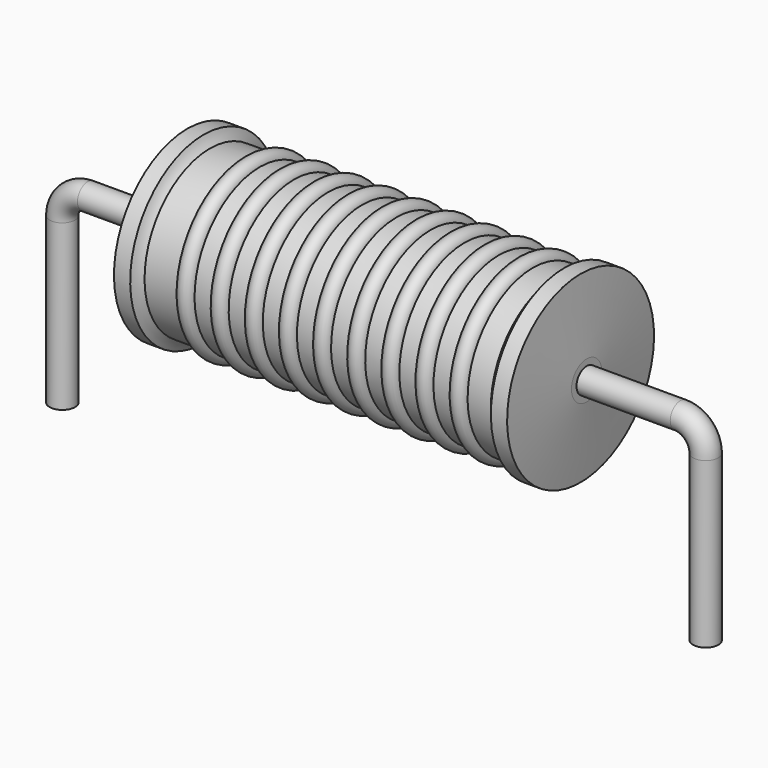
from build123d import *

# Parameters (mm, degrees)
SKETCH_R = 0.4


with BuildPart() as sweep_body:
    # Sweep: sweep along a path in Sketch001
    with BuildLine(Plane.XZ) as sweep_path:
        Line((0, -3), (0, 2.2))
        ThreePointArc((0, 2.2), (0.234312, 2.765683), (0.799992, 3))
        Line((0.799992, 3), (19.52, 3))
        ThreePointArc((19.52, 3), (20.085685, 2.765685), (20.32, 2.2))
        Line((20.32, 2.2), (20.32, -3))
    # Sketch → Sweep (sweep)
    with BuildSketch(Plane.XY.offset(-2)):
        Circle(SKETCH_R)
    sweep(path=sweep_path.line)


with BuildPart() as revolution001:
    # Sketch003 → Revolution001 (revolve)
    with BuildSketch(Plane.XZ):
        with BuildLine():
            ThreePointArc((6.245895, 5.5288), (5.976421, 5.798274), (5.706947, 5.5288))
            Line((5.168, 5.5288), (5.706947, 5.5288))
            Line((5.168, 5.5288), (5.168, 4.9488))
            Line((5.168, 4.9488), (15.408, 4.9488))
            Line((15.408, 4.9488), (15.408, 5.5288))
            Line((14.869053, 5.5288), (15.408, 5.5288))
            ThreePointArc((14.869053, 5.5288), (14.599579, 5.798274), (14.330105, 5.5288))
            Line((13.791158, 5.5288), (14.330105, 5.5288))
            ThreePointArc((13.791158, 5.5288), (13.521684, 5.798274), (13.252211, 5.5288))
            Line((12.713263, 5.5288), (13.252211, 5.5288))
            ThreePointArc((12.713263, 5.5288), (12.443789, 5.798274), (12.174316, 5.5288))
            Line((11.635368, 5.5288), (12.174316, 5.5288))
            ThreePointArc((11.635368, 5.5288), (11.365895, 5.798274), (11.096421, 5.5288))
            Line((10.557474, 5.5288), (11.096421, 5.5288))
            ThreePointArc((10.557474, 5.5288), (10.288, 5.798274), (10.018526, 5.5288))
            Line((9.479579, 5.5288), (10.018526, 5.5288))
            ThreePointArc((9.479579, 5.5288), (9.210105, 5.798274), (8.940632, 5.5288))
            Line((8.401684, 5.5288), (8.940632, 5.5288))
            ThreePointArc((8.401684, 5.5288), (8.132211, 5.798274), (7.862737, 5.5288))
            Line((7.323789, 5.5288), (7.862737, 5.5288))
            ThreePointArc((7.323789, 5.5288), (7.054316, 5.798274), (6.784842, 5.5288))
            Line((6.245895, 5.5288), (6.784842, 5.5288))
        make_face()
    revolve(axis=Axis((4.08, 0, 3), (1, 0, 0)))


with BuildPart() as obj1:
    # Sketch002 → Revolution (revolve)
    with BuildSketch(Plane.XZ):
        with BuildLine():
            Line((3.952, 5.9), (4.464, 5.9))
            ThreePointArc((4.464, 5.9), (4.545878, 5.729406), (4.662, 5.58))
            Line((4.662, 5.58), (15.6, 5.58))
            ThreePointArc((15.6, 5.58), (15.74449, 5.726808), (15.856, 5.9))
            Line((15.856, 5.9), (16.368, 5.9))
            ThreePointArc((16.56, 3.6), (16.466011, 4.750168), (16.368, 5.9))
            Line((16.56, 3), (16.56, 3.6))
            Line((3.76, 3), (16.56, 3))
            Line((3.76, 3), (3.76, 3.6))
            ThreePointArc((3.952, 5.9), (3.853989, 4.750168), (3.76, 3.6))
        make_face()
    revolve(axis=Axis((3.76, 0, 3), (1, 0, 0)))

    # obj1: union Sweep body, Revolution001
    add(sweep_body.part)
    add(revolution001.part)


solid = obj1.part
